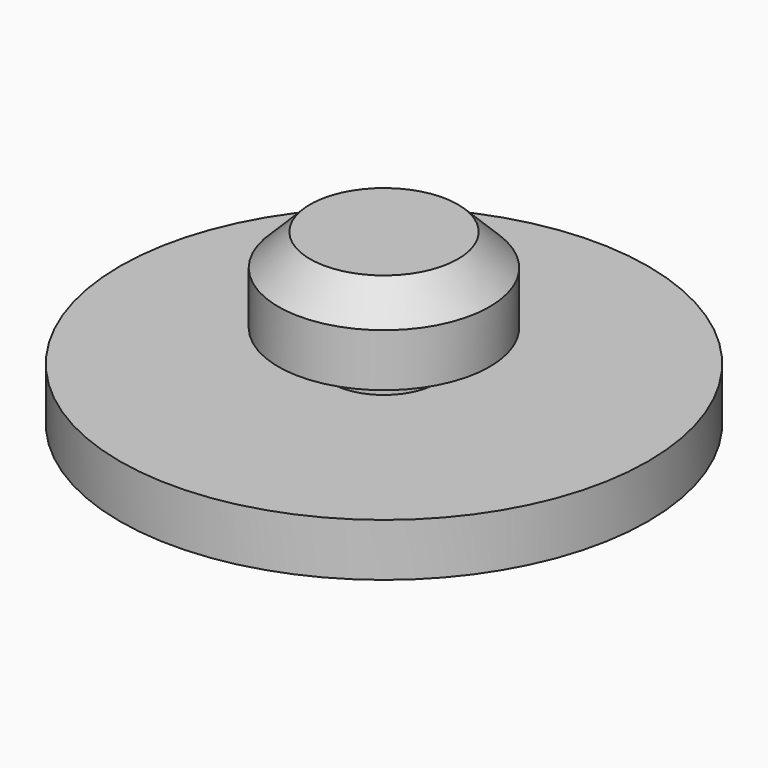
from build123d import *

# Parameters (mm, degrees)
F0_W           = 27
F0_H           = 27
F1_DEPTH       = 2
F3_W           = 47
F3_H           = 50
F4_DEPTH       = 2
F6_DEPTH       = 2
F7_DEPTH       = 3
F8_W           = 8
F8_H           = 5
F9_DEPTH       = 2
F10_W          = 8
F10_H          = 5
F11_DEPTH      = 3
F12_W          = 4
F12_H          = 22
F13_DEPTH      = 6
F14_W          = 7
F14_H          = 5
F15_DEPTH      = 4
F16_R          = 50
F16_R_2        = 47.5
F17_DEPTH      = 20
F17_DEPTH_BACK = 20
F18_SIZE       = 15
F19_R          = 25
F20_DEPTH      = 15
F21_R          = 125
F21_R_2        = 25
F22_DEPTH      = 25


with BuildPart() as f1:
    # F0 (on Top) → F1 (new body)
    with BuildSketch(Plane.XY):
        Rectangle(F0_W, F0_H)
    extrude(amount=-F1_DEPTH)


with BuildPart() as f4:
    # F3 (on offset) → F4 (new body)
    with BuildSketch(Plane(origin=(0, 0, -5), x_dir=(1, 0, 0), z_dir=(0, 0, -1))):
        with Locations((0, -22)):
            Rectangle(F3_W, F3_H)
    extrude(amount=F4_DEPTH)

    # F5 (on face) → F6 (join)
    with BuildSketch(Plane.XY.offset(-5)):
        Polygon((32, -21), (32, -3), (23.5, -3), (-23.5, -3), (-32, -3), (-32, -21), align=None)
    extrude(amount=-F6_DEPTH)

    # F8 (on face) → F9 (join)
    with BuildSketch(Plane.XY.offset(-5)):
        with Locations((0.5, 44.5)):
            Rectangle(F8_W, F8_H)
    extrude(amount=F9_DEPTH)

    # F10 (on face) → F11 (join)
    with BuildSketch(Plane.XY.offset(-5)):
        with Locations((11.5, 44.5)):
            Rectangle(F10_W, F10_H)
        with Locations((11.5, 49.5)):
            Rectangle(F10_W, F10_H)
    extrude(amount=F11_DEPTH)

    # F12 (on face) → F13 (join)
    with BuildSketch(Plane.XY.offset(-5)):
        with Locations((19.5, 30)):
            Rectangle(F12_W, F12_H)
    extrude(amount=F13_DEPTH)


with BuildPart() as f7:
    # F7 (new, through all): a face of the model
    f7_faces = [f1.part.faces().sort_by_distance(p)[0] for p in [
        (0, 0, -2),
    ]]
    extrude(f7_faces, amount=F7_DEPTH)


with BuildPart() as f1_1:
    add(f1.part)

    add(f4.part)  # F15 merges F4

    add(f7.part)  # F15 merges F7
    # F14 (on face) → F15 (join)
    with BuildSketch(Plane.XY.offset(-5)):
        with Locations((-14, 44.5)):
            Rectangle(F14_W, F14_H)
    extrude(amount=F15_DEPTH)


with BuildPart() as f17:
    # F16 (on face) → F17 (new body, two sides)
    with BuildSketch(Plane(origin=(0, 0, -7), x_dir=(1, 0, 0), z_dir=(0, 0, -1))) as f17_sk:
        with Locations((0, -9.53125)):
            Circle(F16_R)
        with Locations((0, -9.53125)):
            Circle(F16_R_2, mode=Mode.SUBTRACT)
        with Locations((0, -9.53125)):
            Circle(F16_R_2)
        Polygon((32, 21), (32, 3), (23.5, 3), (23.5, -47), (-23.5, -47), (-23.5, 3), (-32, 3), (-32, 21), align=None, mode=Mode.SUBTRACT)
        Polygon((23.5, 3), (32, 3), (32, 21), (-32, 21), (-32, 3), (-23.5, 3), (-23.5, -47), (23.5, -47), align=None)
    extrude(amount=F17_DEPTH)
    extrude(f17_sk.sketch, amount=-F17_DEPTH_BACK)

    # F18
    f18_edges = [f17.edges().sort_by_distance(p)[0] for p in [
        (-50, 9.53125, 13),
    ]]
    chamfer(f18_edges, length=F18_SIZE)


with BuildPart() as f20:
    # F19 (on face) → F20 (new body)
    with BuildSketch(Plane(origin=(0, 0, -27), x_dir=(1, 0, 0), z_dir=(0, 0, -1))):
        with Locations((0, -9.53125)):
            Circle(F19_R)
    extrude(amount=F20_DEPTH)

    # F21 (on face) → F22 (join)
    with BuildSketch(Plane(origin=(0, 0, -42), x_dir=(1, 0, 0), z_dir=(0, 0, -1))):
        with Locations((0, -9.53125)):
            Circle(F21_R)
        with Locations((0, -9.53125)):
            Circle(F21_R_2, mode=Mode.SUBTRACT)
        with Locations((0, -9.53125)):
            Circle(F21_R_2)
    extrude(amount=F22_DEPTH)


solid = Compound([f1_1.part, f17.part, f20.part])
